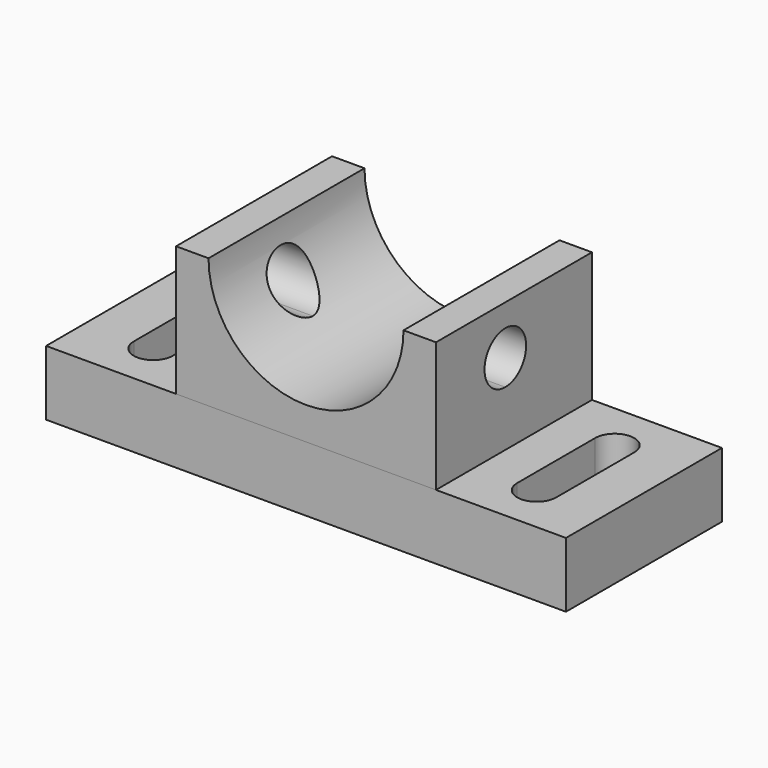
from build123d import *

# Parameters (mm, degrees)
F0_W     = 160
F0_H     = 20
F1_DEPTH = 60
F3_DEPTH = 60
F5_DEPTH = 80
F7_DEPTH = 20


with BuildPart() as f1:
    # F0 (on Front) → F1 (new body)
    with BuildSketch(Plane.XZ):
        with Locations((13.940135, 10)):
            Rectangle(F0_W, F0_H)
    extrude(amount=F1_DEPTH)

    # F6 (on face) → F7 (cut)
    with BuildSketch(Plane.XY.offset(20)):
        with BuildLine():
            Line((78.940135, -45), (78.940135, -30))
            Line((78.940135, -30), (78.940135, -15))
            ThreePointArc((78.940135, -15), (72.940135, -9), (66.940135, -15))
            Line((66.940135, -15), (66.940135, -45))
            ThreePointArc((66.940135, -45), (72.940135, -51), (78.940135, -45))
        make_face()
        with BuildLine():
            Line((-51.059865, -15), (-51.059865, -30))
            Line((-51.059865, -30), (-51.059865, -45))
            ThreePointArc((-51.059865, -45), (-45.059865, -51), (-39.059865, -45))
            Line((-39.059865, -45), (-39.059865, -15))
            ThreePointArc((-39.059865, -15), (-45.059865, -9), (-51.059865, -15))
        make_face()
    extrude(amount=-F7_DEPTH, mode=Mode.SUBTRACT)


with BuildPart() as f3:
    # F2 (on face) → F3 (new body)
    with BuildSketch(Plane.XZ.offset(60)):
        with BuildLine():
            Line((-26.059865, 60), (-26.059865, 20))
            Line((-26.059865, 20), (53.940135, 20))
            Line((53.940135, 20), (53.940135, 60))
            Line((53.940135, 60), (43.940135, 60))
            ThreePointArc((43.940135, 60), (13.940135, 30), (-16.059865, 60))
            Line((-16.059865, 60), (-26.059865, 60))
        make_face()
    extrude(amount=-F3_DEPTH)

    # F4 (on face) → F5 (cut)
    with BuildSketch(Plane(origin=(-26.059865, 0, 0), x_dir=(0, -1, 0), z_dir=(-1, 0, 0))):
        with BuildLine():
            ThreePointArc((33.326432, 37), (38.983286, 39.343146), (41.326432, 45))
            ThreePointArc((41.326432, 45), (27.669578, 50.656854), (33.326432, 37))
        make_face()
    extrude(amount=-F5_DEPTH, mode=Mode.SUBTRACT)


solid = Compound([f1.part, f3.part])
